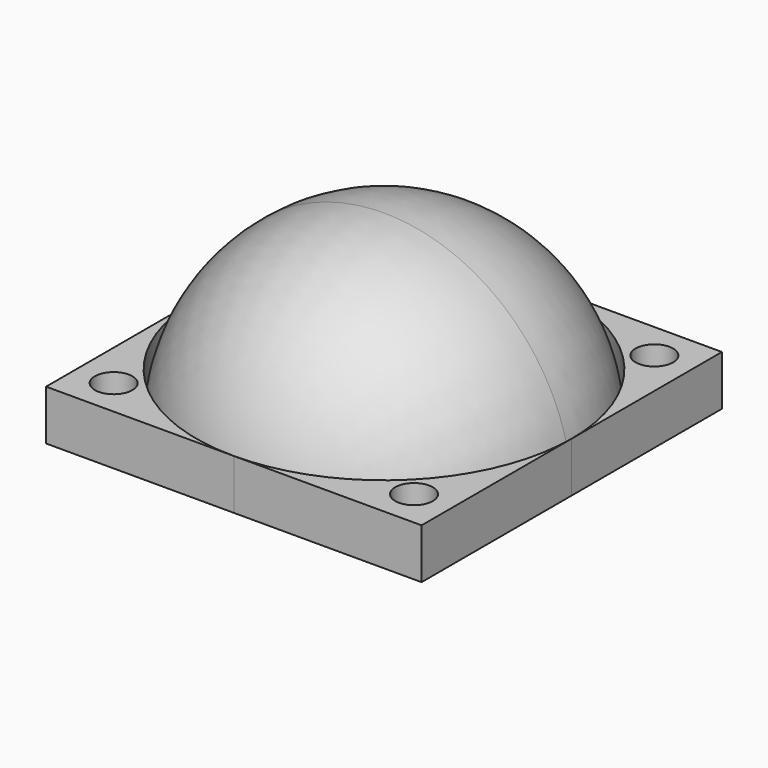
from build123d import *

# Parameters (mm, degrees)
F1_ANGLE = -180
F0_R     = 0.75
F2_DEPTH = 2


with BuildPart() as f1:
    # F0 (on Top) → F1 (revolve)
    with BuildSketch(Plane.XY):
        with BuildLine():
            ThreePointArc((-7.5, 0), (-5.303301, -5.303301), (0, -7.5))
            Line((0, -7.5), (0, 7.5))
            ThreePointArc((0, 7.5), (-5.303301, 5.303301), (-7.5, 0))
        make_face()
    revolve(axis=Axis((0, 0, 0), (0, -1, 0)), revolution_arc=F1_ANGLE)

    # F0 (on Top) → F2 (join)
    with BuildSketch(Plane.XY):
        with BuildLine():
            Line((-7.5, 7.5), (-7.5, 0))
            ThreePointArc((-7.5, 0), (-5.303301, 5.303301), (0, 7.5))
            Line((0, 7.5), (-7.5, 7.5))
        make_face()
        with Locations((-6, 6)):
            Circle(F0_R, mode=Mode.SUBTRACT)
        with BuildLine():
            Line((-7.5, -7.5), (0, -7.5))
            ThreePointArc((0, -7.5), (-5.303301, -5.303301), (-7.5, 0))
            Line((-7.5, 0), (-7.5, -7.5))
        make_face()
        with Locations((-6, -6)):
            Circle(F0_R, mode=Mode.SUBTRACT)
        with BuildLine():
            Line((0, -7.5), (7.5, -7.5))
            Line((7.5, -7.5), (7.5, 0))
            ThreePointArc((7.5, 0), (5.303301, -5.303301), (0, -7.5))
        make_face()
        with Locations((6, -6)):
            Circle(F0_R, mode=Mode.SUBTRACT)
        with BuildLine():
            ThreePointArc((0, 7.5), (5.303301, 5.303301), (7.5, 0))
            Line((7.5, 0), (7.5, 7.5))
            Line((7.5, 7.5), (0, 7.5))
        make_face()
        with Locations((6, 6)):
            Circle(F0_R, mode=Mode.SUBTRACT)
    extrude(amount=F2_DEPTH)


solid = f1.part
